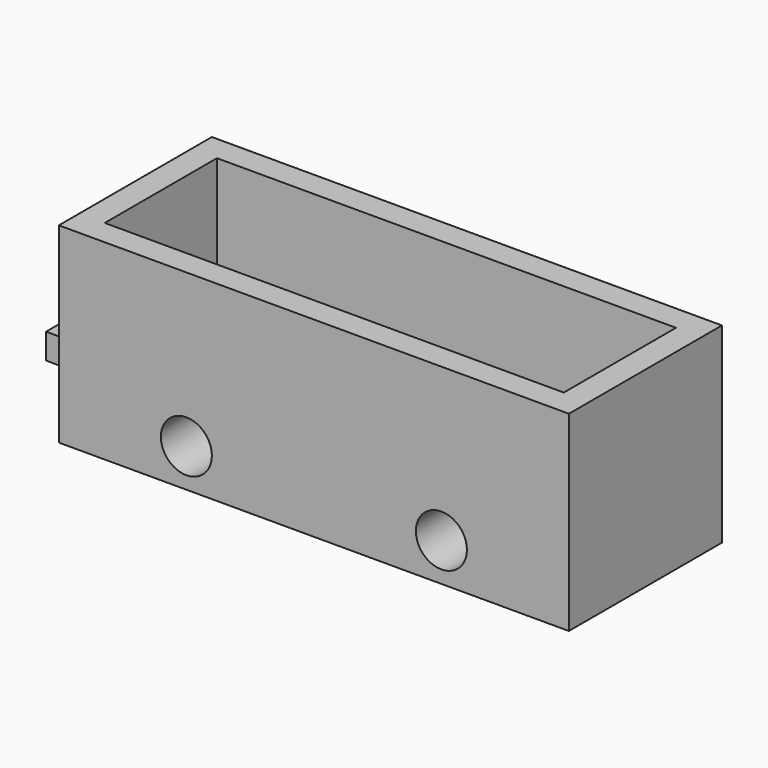
from build123d import *

# Parameters (mm, degrees)
F0_W      = 101.6
F0_H      = 38.1
F1_DEPTH  = 38.1
F2_W      = 91.44
F2_H      = 27.94
F3_DEPTH  = 20.32
F4_R      = 5.08
F5_DEPTH  = 38.101
F6_W      = 22.86
F6_H      = 5.08
F7_DEPTH  = 1.27
F8_W      = 12.7
F8_H      = 5.08
F9_DEPTH  = 12.7
F10_R     = 1.905
F11_DEPTH = 10.161


with BuildPart() as f1:
    # F0 (on Front) → F1 (new body)
    with BuildSketch(Plane.XZ):
        with Locations((-2.376233, -0.464275)):
            Rectangle(F0_W, F0_H)
    extrude(amount=F1_DEPTH)

    # F2 (on face) → F3 (cut)
    with BuildSketch(Plane.XY.offset(18.585725)):
        with Locations((-2.376233, -19.05)):
            Rectangle(F2_W, F2_H)
    extrude(amount=-F3_DEPTH, mode=Mode.SUBTRACT)

    # F4 (on face) → F5 (cut, through all)
    with BuildSketch(Plane.XZ.offset(38.1)):
        with Locations((-27.776233, -11.894275)):
            Circle(F4_R)
        with Locations((23.023767, -11.894275)):
            Circle(F4_R)
    extrude(amount=-F5_DEPTH, mode=Mode.SUBTRACT)

    # F6 (on face) → F7 (join)
    with BuildSketch(Plane(origin=(-53.176233, 0, 0), x_dir=(0, -1, 0), z_dir=(-1, 0, 0))):
        with Locations((19.05, 12.235725)):
            Rectangle(F6_W, F6_H)
        with Locations((19.05, 3.769143)):
            Rectangle(F6_W, F6_H)
        with Locations((19.05, -4.689057)):
            Rectangle(F6_W, F6_H)
    extrude(amount=F7_DEPTH)

    # F8 (on face) → F9 (join)
    with BuildSketch(Plane(origin=(-53.176233, 0, 0), x_dir=(0, -1, 0), z_dir=(-1, 0, 0))):
        with Locations((19.05, -11.894275)):
            Rectangle(F8_W, F8_H)
    extrude(amount=F9_DEPTH)

    # F10 (on face) → F11 (cut, through all)
    with BuildSketch(Plane.XY.offset(-9.354275)):
        with Locations((-56.986233, -19.05)):
            Circle(F10_R)
    extrude(amount=-F11_DEPTH, mode=Mode.SUBTRACT)


solid = f1.part
